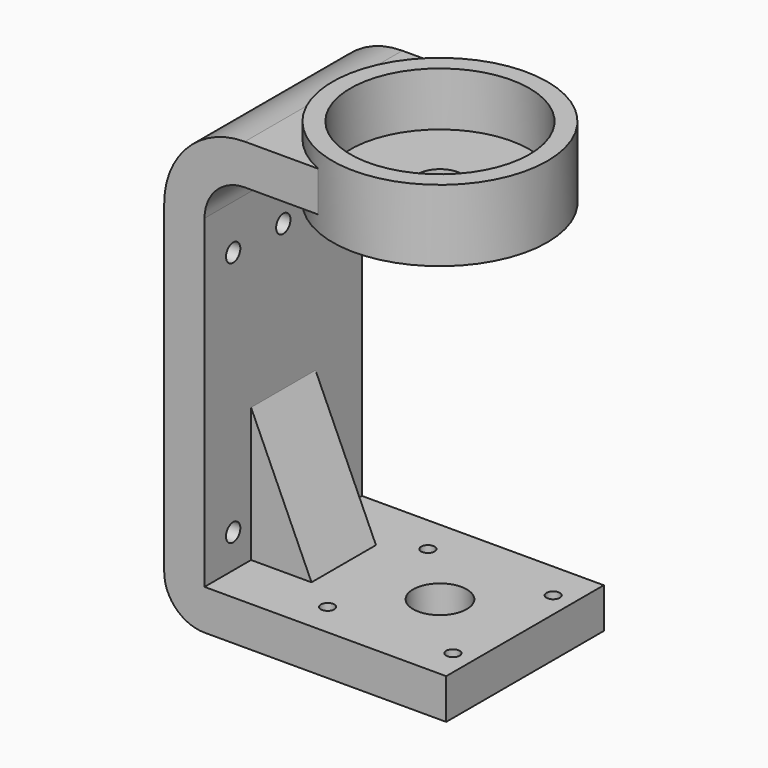
from build123d import *

# Parameters (mm, degrees)
F0_W      = 2
F0_H      = 9
F0_W_2    = 24
F1_DEPTH  = 22
F3_R      = 20
F4_DEPTH  = 12
F5_R      = 5
F5_R_2    = 3.05
F6_DEPTH  = 50
F7_R      = 2
F8_DEPTH  = 9.001
F9_R      = 11
F10_DEPTH = 2
F11_R     = 1.5
F12_DEPTH = 20
F13_R     = 6
F14_DEPTH = 25
F15_DEPTH = 9


with BuildPart() as f1:
    # F0 (on Front) → F1 (new body, symmetric)
    with BuildSketch(Plane.XZ):
        with BuildLine():
            Line((-16, 51.5), (-16, 60.5))
            ThreePointArc((-16, 60.5), (-28.7279220614, 55.2279220614), (-34, 42.5))
            Line((-34, 42.5), (-34, -30))
            ThreePointArc((-34, -30), (-31.3639610307, -36.3639610307), (-25, -39))
            Line((-25, -39), (-25, -30))
            Line((-25, -30), (-25, 0))
            Line((-25, 0), (-25, 42.5))
            ThreePointArc((-25, 42.5), (-22.3639610307, 48.8639610307), (-16, 51.5))
        make_face()
        with Locations((-15, 56)):
            Rectangle(F0_W, F0_H)
        with Locations((-2, 56)):
            Rectangle(F0_W_2, F0_H)
        Polygon((-25, -30), (-25, -39), (29, -39), (29, -30), (-11.5, -30), align=None)
    extrude(amount=F1_DEPTH, both=True)

    # F0 (on Front) → F2 (revolve)
    with BuildSketch(Plane.XZ):
        Polygon((34, 64), (10, 64), (10, 60.5), (10, 51.5), (10, 48), (34, 48), align=None)
    revolve(axis=Axis((10, 0, 55.4929765165), (0, 0, -1)))

    # F3 (on face) → F4 (cut)
    with BuildSketch(Plane.XY.offset(64)):
        with Locations((10, 0)):
            Circle(F3_R)
    extrude(amount=-F4_DEPTH, mode=Mode.SUBTRACT)

    # F5 (on face) → F6 (cut)
    with BuildSketch(Plane.XY.offset(52)):
        with Locations((10, 0)):
            Circle(F5_R)
        with Locations((20, 0)):
            Circle(F5_R_2)
    extrude(amount=-F6_DEPTH, mode=Mode.SUBTRACT)

    # F7 (on face) → F8 (cut, through all)
    with BuildSketch(Plane.YZ.offset(-25)):
        with Locations((14, -22.5)):
            Circle(F7_R)
        with Locations((14, 32.5)):
            Circle(F7_R)
        with Locations((0, 32.5)):
            Circle(F7_R)
        with Locations((-14, -22.5)):
            Circle(F7_R)
        with Locations((-14, 32.5)):
            Circle(F7_R)
    extrude(amount=-F8_DEPTH, mode=Mode.SUBTRACT)

    # F9 (on face) → F10 (cut)
    with BuildSketch(Plane(origin=(0, 0, -39), x_dir=(1, 0, 0), z_dir=(0, 0, -1))):
        with Locations((10, 0)):
            Circle(F9_R)
    extrude(amount=-F10_DEPTH, mode=Mode.SUBTRACT)

    # F11 (on face) → F12 (cut)
    with BuildSketch(Plane(origin=(0, 0, -39), x_dir=(1, 0, 0), z_dir=(0, 0, -1))):
        with Locations((-3.5, -13.5)):
            Circle(F11_R)
        with Locations((-3.5, 14.5)):
            Circle(F11_R)
        with Locations((24.5, -13.5)):
            Circle(F11_R)
        with Locations((24.5, 14.5)):
            Circle(F11_R)
        with Locations((52.5, -13.5)):
            Circle(F11_R)
        with Locations((52.5, 14.5)):
            Circle(F11_R)
    extrude(amount=-F12_DEPTH, mode=Mode.SUBTRACT)

    # F13 (on face) → F14 (cut)
    with BuildSketch(Plane(origin=(0, 0, -39), x_dir=(1, 0, 0), z_dir=(0, 0, -1))):
        with Locations((10, 0)):
            Circle(F13_R)
    extrude(amount=-F14_DEPTH, mode=Mode.SUBTRACT)

    # F0 (on Front) → F15 (join, symmetric)
    with BuildSketch(Plane.XZ):
        Polygon((-11.5, -30), (-25, 0), (-25, -30), align=None)
    extrude(amount=F15_DEPTH, both=True)


solid = f1.part
